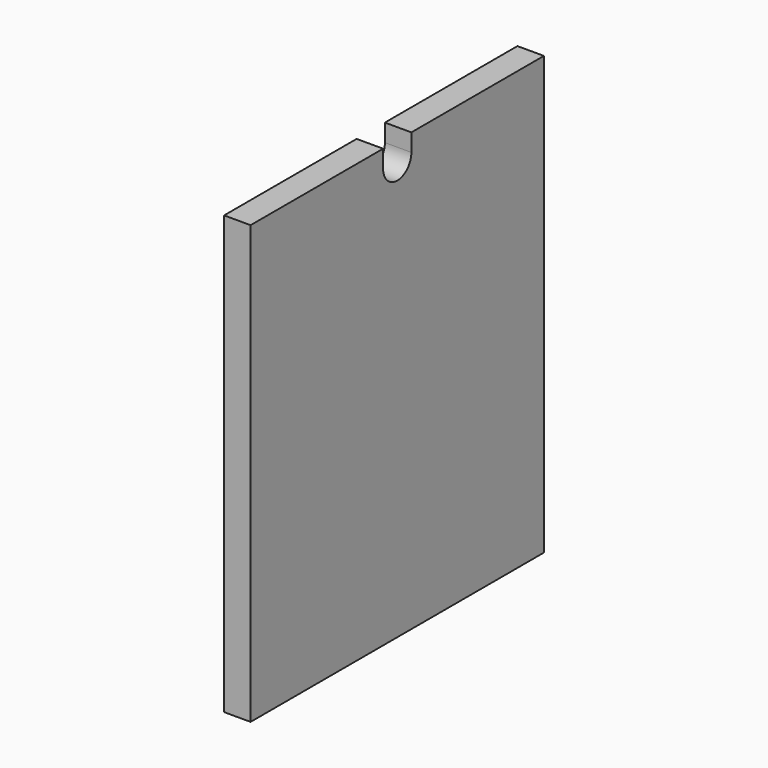
from build123d import *

# Parameters (mm, degrees)
F1_DEPTH = 19.05


with BuildPart() as f1:
    # F0 (on Right) → F1 (new body)
    with BuildSketch(Plane.YZ):
        with BuildLine():
            Line((131.826, -157.226), (131.826, 157.226))
            Line((131.826, 157.226), (12.7, 157.226))
            Line((12.7, 157.226), (12.7, 144.526))
            ThreePointArc((12.7, 144.526), (0, 131.826), (-12.7, 144.526))
            Line((-12.7, 144.526), (-12.7, 157.226))
            Line((-12.7, 157.226), (-131.826, 157.226))
            Line((-131.826, 157.226), (-131.826, -157.226))
            Line((-131.826, -157.226), (131.826, -157.226))
        make_face()
    extrude(amount=F1_DEPTH)


solid = f1.part
